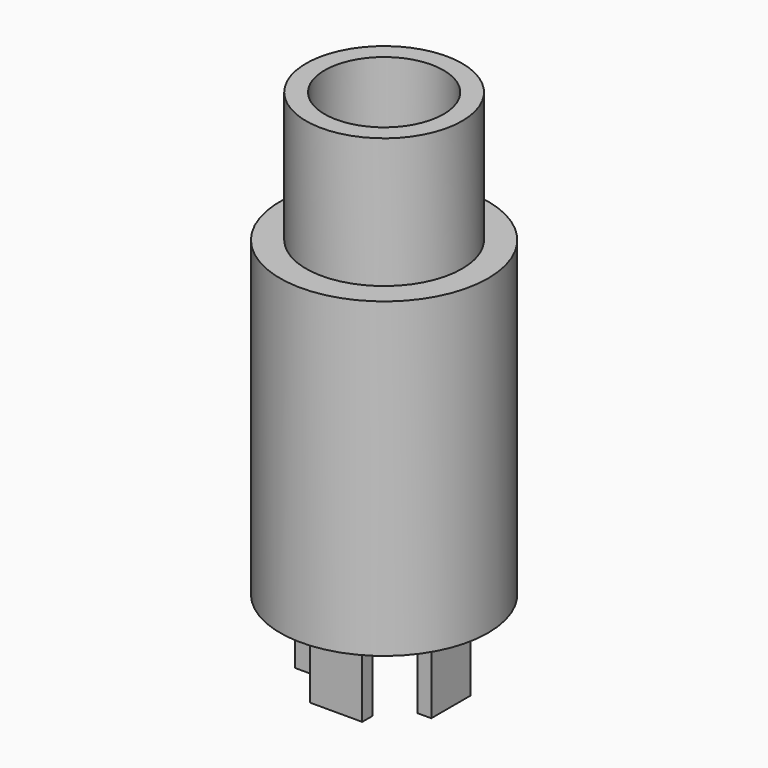
from build123d import *

# Parameters (mm, degrees)
F0_R     = 4
F1_DEPTH = 12
F2_R     = 3
F2_R_2   = 2.287122
F3_DEPTH = 5
F4_W     = 0.61053
F4_H     = 1.999993
F4_W_2   = 0.53819
F4_H_2   = 1.892356
F4_W_3   = 2.00924
F4_H_3   = 0.50231
F5_DEPTH = 3


with BuildPart() as f1:
    # F0 (on Top) → F1 (new body)
    with BuildSketch(Plane.XY):
        with Locations((2.705152, 0.901718)):
            Circle(F0_R)
    extrude(amount=F1_DEPTH)

    # F2 (on face) → F3 (join)
    with BuildSketch(Plane.XY.offset(12)):
        with Locations((2.705152, 0.901718)):
            Circle(F2_R)
        with Locations((2.705152, 0.901718)):
            Circle(F2_R_2, mode=Mode.SUBTRACT)
    extrude(amount=F3_DEPTH)

    # F4 (on face) → F5 (join)
    with BuildSketch(Plane(origin=(0, 0, 0), x_dir=(1, 0, 0), z_dir=(0, 0, -1))):
        with Locations((0.305265, -0.999996)):
            Rectangle(F4_W, F4_H)
        with Locations((4.969864, -0.946178)):
            Rectangle(F4_W_2, F4_H_2)
        with Locations((2.763287, 1.229143)):
            Rectangle(F4_W_3, F4_H_3)
    extrude(amount=F5_DEPTH)


solid = f1.part
